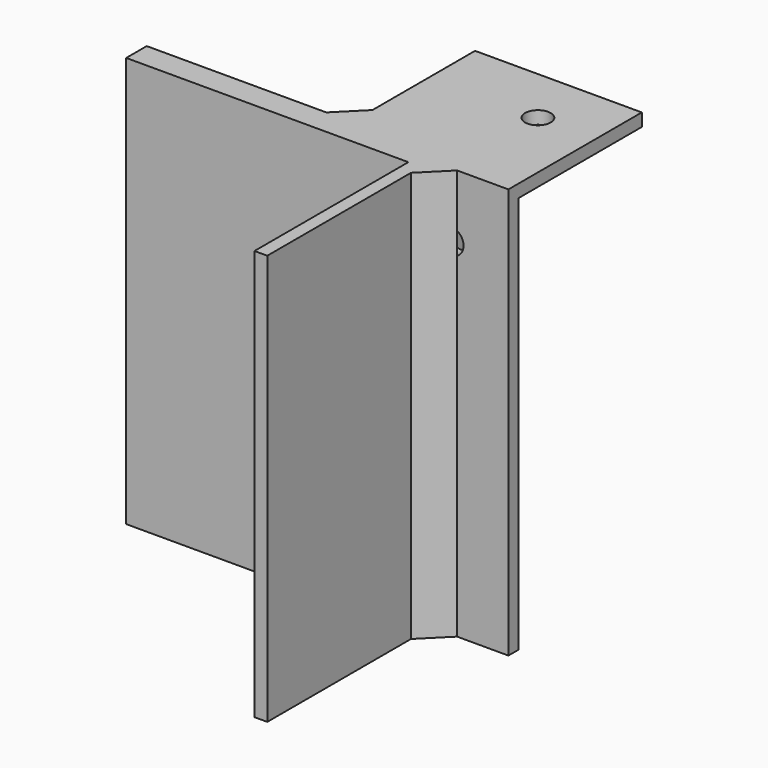
from build123d import *

# Parameters (mm, degrees)
F0_W          = 50.8
F0_H          = 50.8
F1_DEPTH      = 3.175
F2_W          = 50.8
F2_H          = 3.175
F3_DEPTH      = 12.7
F3_DEPTH_BACK = 76.2
F4_W          = 3.175
F4_H          = 101.6
F5_DEPTH      = 12.7
F5_DEPTH_BACK = 76.2
F7_W          = 47.625
F7_H          = 12.7
F8_DEPTH      = 25.4
F9_W          = 47.625
F9_H          = 12.7
F10_DEPTH     = 25.4
F12_DEPTH     = 25.4
F14_DEPTH     = 25.4
F16_DEPTH     = 53.976
F18_DEPTH     = 76.2
F19_R         = 3.175
F20_DEPTH     = 25.4
F21_R         = 3.175
F22_DEPTH     = 25.4
F23_R         = 3.175
F24_DEPTH     = 25.4
F26_DEPTH     = 76.201
F27_DEPTH     = 3.175
F29_DEPTH     = 76.2
F31_DEPTH     = 76.201
F32_W         = 3.175
F32_H         = 76.2
F33_DEPTH     = 12.7
F35_DEPTH     = 25.4


with BuildPart() as f1:
    # F0 (on Top) → F1 (new body)
    with BuildSketch(Plane.XY):
        with Locations((25.4, 25.4)):
            Rectangle(F0_W, F0_H)
    extrude(amount=F1_DEPTH)

    # F2 (on face) → F3 (join, two sides)
    with BuildSketch(Plane.XY.offset(3.175)) as f3_sk:
        with Locations((-25.4, 1.5875)):
            Rectangle(F2_W, F2_H)
        with Locations((25.4, 1.5875)):
            Rectangle(F2_W, F2_H)
    extrude(amount=F3_DEPTH)
    extrude(f3_sk.sketch, amount=-F3_DEPTH_BACK)

    # F4 (on face) → F5 (join, two sides)
    with BuildSketch(Plane.XY.offset(3.175)) as f5_sk:
        with Locations((1.5875, 0)):
            Rectangle(F4_W, F4_H)
    extrude(amount=F5_DEPTH)
    extrude(f5_sk.sketch, amount=-F5_DEPTH_BACK)

    # F7 (on face) → F8 (cut)
    with BuildSketch(Plane.YZ.offset(3.175)):
        with Locations((26.9875, 9.525)):
            Rectangle(F7_W, F7_H)
    extrude(amount=-F8_DEPTH, mode=Mode.SUBTRACT)

    # F9 (on face) → F10 (cut)
    with BuildSketch(Plane(origin=(0, 3.175, 0), x_dir=(-1, 0, 0), z_dir=(0, 1, 0))):
        with Locations((-26.9875, 9.525)):
            Rectangle(F9_W, F9_H)
    extrude(amount=-F10_DEPTH, mode=Mode.SUBTRACT)

    # F11 (on face) → F12 (cut)
    with BuildSketch(Plane.XZ):
        Polygon((50.8, -6.35), (41.275, -73.025), (50.8, -73.025), align=None)
    extrude(amount=-F12_DEPTH, mode=Mode.SUBTRACT)

    # F13 (on face) → F14 (cut)
    with BuildSketch(Plane(origin=(0, 0, 0), x_dir=(0, -1, 0), z_dir=(-1, 0, 0))):
        Polygon((-15.875, -73.025), (-50.8, -6.35), (-50.8, -73.025), align=None)
    extrude(amount=-F14_DEPTH, mode=Mode.SUBTRACT)

    # F15 (on face) → F16 (cut, through all)
    with BuildSketch(Plane(origin=(0, 3.175, 0), x_dir=(-1, 0, 0), z_dir=(0, 1, 0))):
        Polygon((50.8, 15.875), (-3.175, 15.875), (-3.175, 3.175), (0, 3.175), (50.8, 3.175), align=None)
    extrude(amount=-F16_DEPTH, mode=Mode.SUBTRACT)

    # F17 (on face) → F18 (join, through all)
    with BuildSketch(Plane.XY.offset(3.175)):
        Polygon((9.525, 0), (3.175, 0), (3.175, -6.35), align=None)
        Polygon((-6.35, 3.175), (0, 3.175), (0, 9.525), align=None)
    extrude(amount=-F18_DEPTH)

    # F19 (on face) → F20 (cut)
    with BuildSketch(Plane(origin=(0, 3.175, 0), x_dir=(-1, 0, 0), z_dir=(0, 1, 0))):
        with Locations((-26.9875, -12.7)):
            Circle(F19_R)
    extrude(amount=-F20_DEPTH, mode=Mode.SUBTRACT)

    # F21 (on face) → F22 (cut)
    with BuildSketch(Plane.YZ.offset(3.175)):
        with Locations((26.9875, -12.7)):
            Circle(F21_R)
    extrude(amount=-F22_DEPTH, mode=Mode.SUBTRACT)

    # F23 (on face) → F24 (cut)
    with BuildSketch(Plane(origin=(0, 0, 0), x_dir=(1, 0, 0), z_dir=(0, 0, -1))):
        with Locations((26.9875, -26.9875)):
            Circle(F23_R)
    extrude(amount=-F24_DEPTH, mode=Mode.SUBTRACT)

    # F25 (on face) → F26 (cut, through all)
    with BuildSketch(Plane.XY.offset(3.175)):
        Polygon((41.275, 0), (50.8, 0), (50.8, 50.8), (41.275, 50.8), (0, 50.8), (0, 41.275), (41.275, 41.275), align=None)
    extrude(amount=-F26_DEPTH, mode=Mode.SUBTRACT)

    # F27 (add): a face of the model
    f27_faces = [f1.faces().sort_by_distance(p)[0] for p in [
        (-25.4, 0, -34.925),
    ]]
    extrude(f27_faces, amount=F27_DEPTH)

    # F28 (on face) → F29 (join, through all)
    with BuildSketch(Plane.XY.offset(3.175)):
        Polygon((28.575, 0), (22.225, 0), (19.05, 0), (19.05, -50.8), (22.225, -50.8), (22.225, -6.35), align=None)
    extrude(amount=-F29_DEPTH)

    # F30 (on face) → F31 (cut, through all)
    with BuildSketch(Plane.XY.offset(3.175)):
        Polygon((0, -50.8), (3.175, -50.8), (3.175, -6.35), (6.35, -3.175), (0, -3.175), align=None)
    extrude(amount=-F31_DEPTH, mode=Mode.SUBTRACT)

    # F32 (on face) → F33 (join, through all)
    with BuildSketch(Plane(origin=(19.05, 0, 0), x_dir=(0, -1, 0), z_dir=(-1, 0, 0))):
        with Locations((1.5875, -34.925)):
            Rectangle(F32_W, F32_H)
    extrude(amount=F33_DEPTH)

    # F34 (on face) → F35 (join)
    with BuildSketch(Plane(origin=(0, 0, -73.025), x_dir=(1, 0, 0), z_dir=(0, 0, -1))):
        Polygon((19.05, 3.175), (6.35, 3.175), (-50.8, 3.175), (-50.8, -3.175), (-6.35, -3.175), (0, -9.525), (0, -15.875), (3.175, -15.875), (3.175, -3.175), (41.275, -3.175), (41.275, 0), (28.575, 0), (22.225, 6.35), (22.225, 50.8), (19.05, 50.8), align=None)
    extrude(amount=F35_DEPTH)


solid = f1.part
